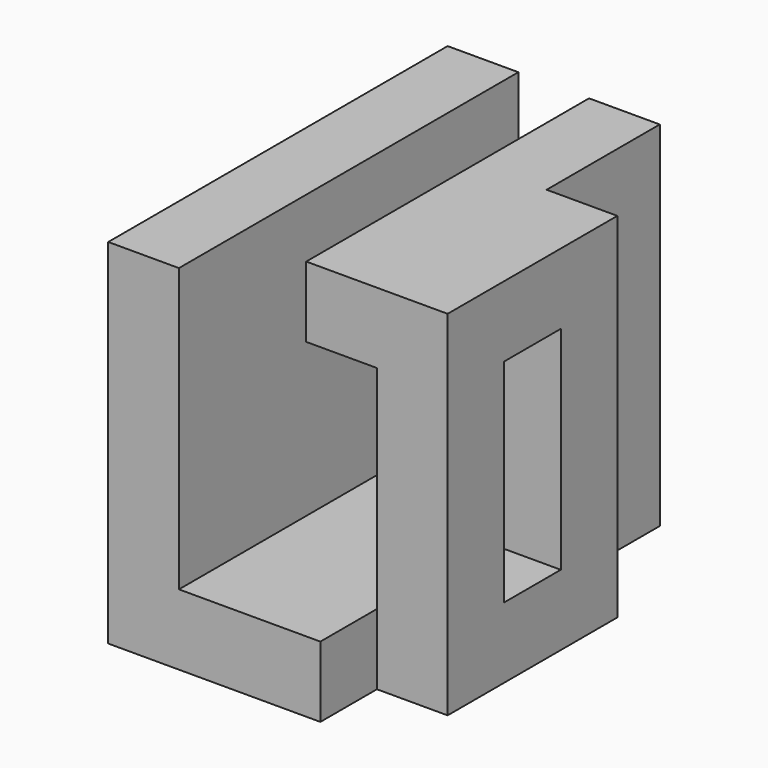
from build123d import *

# Parameters (mm, degrees)
F1_DEPTH = 30
F2_W     = 10
F2_H     = 30
F3_DEPTH = 50
F4_W     = 10
F4_H     = 10
F5_DEPTH = 10
F6_W     = 10
F6_H     = 30
F7_DEPTH = 30
F8_W     = 10
F8_H     = 30
F9_DEPTH = 10


with BuildPart() as f1:
    # F0 (on Front) → F1 (new body, symmetric)
    with BuildSketch(Plane.XZ):
        Polygon((0, 50), (0, 0), (30, 0), (30, 50), (20, 50), (20, 10), (10, 10), (10, 50), align=None)
    extrude(amount=F1_DEPTH, both=True)

    # F2 (on face) → F3 (join, through all)
    with BuildSketch(Plane.XY.offset(50)):
        with Locations((35, -5)):
            Rectangle(F2_W, F2_H)
    extrude(amount=-F3_DEPTH)

    # F4 (on face) → F5 (cut)
    with BuildSketch(Plane.XZ.offset(30)):
        with Locations((25, 45)):
            Rectangle(F4_W, F4_H)
        Polygon((40, 50), (30, 50), (30, 40), (30, 0), (40, 0), align=None)
    extrude(amount=-F5_DEPTH, mode=Mode.SUBTRACT)

    # F6 (on face) → F7 (cut)
    with BuildSketch(Plane.XZ.offset(30)):
        with Locations((25, 25)):
            Rectangle(F6_W, F6_H)
    extrude(amount=-F7_DEPTH, mode=Mode.SUBTRACT)

    # F8 (on face) → F9 (cut, through all)
    with BuildSketch(Plane.YZ.offset(40)):
        with Locations((-5, 25)):
            Rectangle(F8_W, F8_H)
    extrude(amount=-F9_DEPTH, mode=Mode.SUBTRACT)


solid = f1.part
